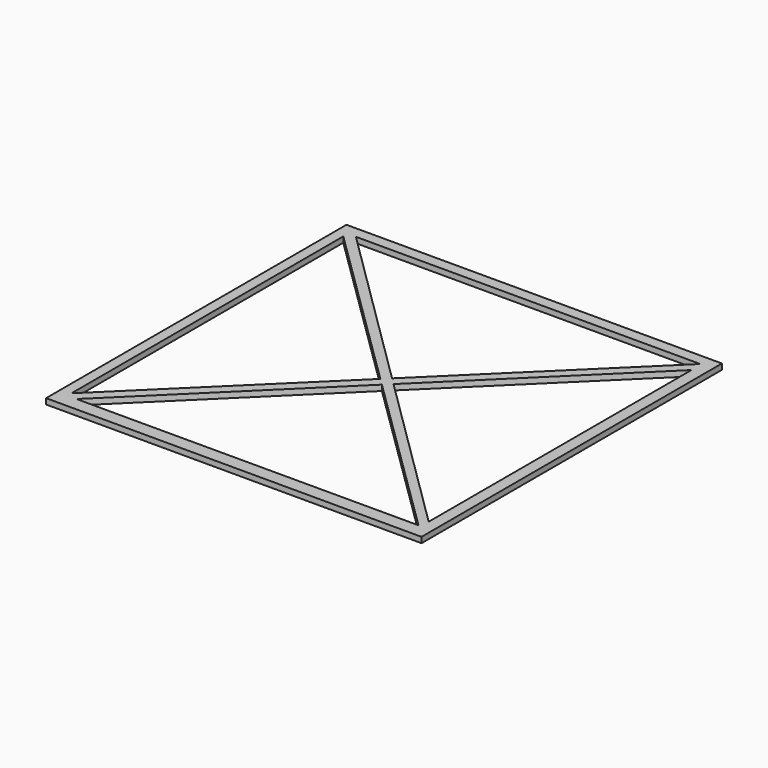
from build123d import *

# Parameters (mm, degrees)
F0_W     = 200
F0_H     = 200
F1_DEPTH = 3


with BuildPart() as f1:
    # F0 (on Top) → F1 (new body)
    with BuildSketch(Plane.XY):
        with Locations((-0.150979, 12.599895)):
            Rectangle(F0_W, F0_H)
        Polygon((92.378985, -80.081508), (-89.743175, -80.081508), (1.317902, 9.357106), align=None, mode=Mode.SUBTRACT)
        Polygon((4.787778, 12.765158), (93.662091, 100.05597), (93.662091, -74.918876), align=None, mode=Mode.SUBTRACT)
        Polygon((-94.644882, -77.369233), (-94.644882, 103.610084), (-2.40064, 13.009393), align=None, mode=Mode.SUBTRACT)
        Polygon((1.081851, 16.421451), (-90.312292, 106.591567), (93.11328, 106.591567), align=None, mode=Mode.SUBTRACT)
    extrude(amount=F1_DEPTH)


solid = f1.part
